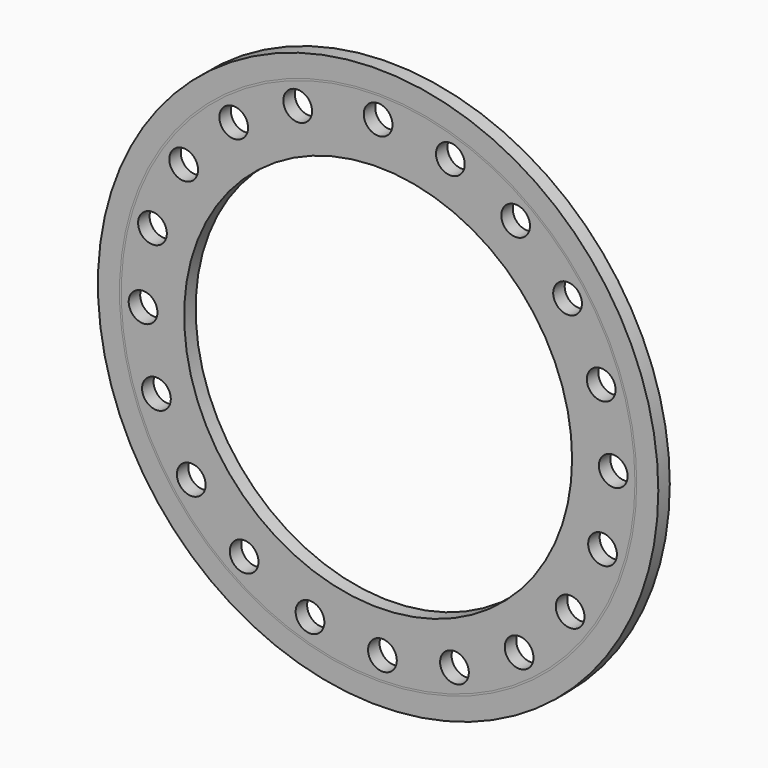
from build123d import *

# Parameters (mm, degrees)
F0_R     = 495.3
F0_R_2   = 25.4
F0_R_3   = 342.9
F1_DEPTH = 25.4
F3_DEPTH = 12.7


with BuildPart() as f1:
    # F0 (on Front) → F1 (new body)
    with BuildSketch(Plane.XZ):
        Circle(F0_R)
        with Locations((-330.3273186673, -251.1668106439)):
            Circle(F0_R_2, mode=Mode.SUBTRACT)
        with Locations((-120.4247256331, -396.7100299756)):
            Circle(F0_R_2, mode=Mode.SUBTRACT)
        with Locations((-236.8333982647, -340.4622609039)):
            Circle(F0_R_2, mode=Mode.SUBTRACT)
        with Locations((-391.8605075296, -137.463436649)):
            Circle(F0_R_2, mode=Mode.SUBTRACT)
        with Locations((-415.4793375887, -10.3534785182)):
            Circle(F0_R_2, mode=Mode.SUBTRACT)
        with Locations((7.6356091811, -414.467879977)):
            Circle(F0_R_2, mode=Mode.SUBTRACT)
        with Locations((134.9571626672, -392.0176548717)):
            Circle(F0_R_2, mode=Mode.SUBTRACT)
        with Locations((249.2209719047, -331.5315201968)):
            Circle(F0_R_2, mode=Mode.SUBTRACT)
        with Locations((339.3714725325, -238.8617957667)):
            Circle(F0_R_2, mode=Mode.SUBTRACT)
        with Locations((396.686176927, -122.9747160315)):
            Circle(F0_R_2, mode=Mode.SUBTRACT)
        with Locations((-398.8985752472, 117.8645736803)):
            Circle(F0_R_2, mode=Mode.SUBTRACT)
        with Locations((-343.7224877393, 234.7850165323)):
            Circle(F0_R_2, mode=Mode.SUBTRACT)
        with Locations((-255.2896226832, 329.0952438004)):
            Circle(F0_R_2, mode=Mode.SUBTRACT)
        with Locations((-142.1562783312, 391.6702946203)):
            Circle(F0_R_2, mode=Mode.SUBTRACT)
        Circle(F0_R_3, mode=Mode.SUBTRACT)
        with Locations((415.6196161639, 4.917095544)):
            Circle(F0_R_2, mode=Mode.SUBTRACT)
        with Locations((334.9059137749, 247.2541036599)):
            Circle(F0_R_2, mode=Mode.SUBTRACT)
        with Locations((394.3398903841, 132.4395008699)):
            Circle(F0_R_2, mode=Mode.SUBTRACT)
        with Locations((243.068204878, 338.2520476693)):
            Circle(F0_R_2, mode=Mode.SUBTRACT)
        with Locations((0, 416.7362819672)):
            Circle(F0_R_2, mode=Mode.SUBTRACT)
        with Locations((127.7124967025, 396.6288511166)):
            Circle(F0_R_2, mode=Mode.SUBTRACT)
    extrude(amount=F1_DEPTH)


with BuildPart() as f3:
    # F2 (on face) → F3 (new body)
    with BuildSketch(Plane.XZ.offset(25.4)):
        with BuildLine():
            Line((409.4878892291, 203.3507034035), (406.6540299131, 201.9187969964))
            ThreePointArc((406.6540299131, 201.9187969964), (442.023639954, 103.7005416903), (454.025, 0))
            ThreePointArc((454.025, 0), (442.0236398243, -103.700542243), (406.6540294081, -201.9187980134))
            Line((406.6540294081, -201.9187980134), (409.4878892291, -203.3507034035))
            ThreePointArc((409.4878892291, -203.3507034035), (445.1121785323, -104.4365286776), (457.2, 0))
            ThreePointArc((457.2, 0), (445.1121785323, 104.4365286776), (409.4878892291, 203.3507034035))
        make_face()
        with BuildLine():
            ThreePointArc((403.7902873357, 207.5863783545), (405.2320671046, 204.7575942796), (406.6540299131, 201.9187969964))
            Line((406.6540299131, 201.9187969964), (409.4878892291, 203.3507034035))
            Line((409.4878892291, 203.3507034035), (406.6241466469, 209.0182847591))
            Line((406.6241466469, 209.0182847591), (403.7902873357, 207.5863783545))
        make_face()
        with BuildLine():
            Line((409.4878892291, -203.3507034035), (406.6540294081, -201.9187980134))
            ThreePointArc((406.6540294081, -201.9187980134), (405.2320665925, -204.7575952931), (403.7902868166, -207.5863793643))
            Line((403.7902868166, -207.5863793643), (406.6241466469, -209.0182847591))
            Line((406.6241466469, -209.0182847591), (409.4878892291, -203.3507034035))
        make_face()
        with BuildLine():
            ThreePointArc((-402.1703246311, 210.7076899668), (1.7583277102, 454.0215952008), (403.7902873357, 207.5863783545))
            Line((403.7902873357, 207.5863783545), (406.6241466469, 209.0182847591))
            ThreePointArc((406.6241466469, 209.0182847591), (1.759522259, 457.1966142497), (-405.003310923, 212.1418349629))
            Line((-405.003310923, 212.1418349629), (-402.1703246311, 210.7076899668))
        make_face()
        with BuildLine():
            Line((406.6241466469, 209.0182847591), (409.4878892291, 203.3507034035))
            ThreePointArc((409.4878892291, 203.3507034035), (408.0658576076, 206.1894659166), (406.6241466469, 209.0182847591))
        make_face()
        with BuildLine():
            Line((406.6241466469, -209.0182847591), (403.7902868166, -207.5863793643))
            ThreePointArc((403.7902868166, -207.5863793643), (1.7351424689, -454.0216844002), (-402.1918421643, -210.666615109))
            Line((-402.1918421643, -210.666615109), (-405.003310923, -212.1418349629))
            ThreePointArc((-405.003310923, -212.1418349629), (1.759522259, -457.1966142497), (406.6241466469, -209.0182847591))
        make_face()
        with BuildLine():
            ThreePointArc((406.6241466469, -209.0182847591), (408.0658576076, -206.1894659166), (409.4878892291, -203.3507034035))
            Line((409.4878892291, -203.3507034035), (406.6241466469, -209.0182847591))
        make_face()
        with BuildLine():
            ThreePointArc((-405.0778789909, 205.0624601853), (-403.6339712134, 207.8901582747), (-402.1703246311, 210.7076899668))
            Line((-402.1703246311, 210.7076899668), (-405.003310923, 212.1418349629))
            Line((-405.003310923, 212.1418349629), (-407.9105914314, 206.4964634034))
            Line((-407.9105914314, 206.4964634034), (-405.0778789909, 205.0624601853))
        make_face()
        with BuildLine():
            Line((-405.003310923, -212.1418349629), (-402.1918421643, -210.666615109))
            ThreePointArc((-402.1918421643, -210.666615109), (-403.6552035113, -207.8489290404), (-405.0988249465, -205.0210785553))
            Line((-405.0988249465, -205.0210785553), (-407.9105914314, -206.4964634034))
            Line((-407.9105914314, -206.4964634034), (-405.003310923, -212.1418349629))
        make_face()
        with BuildLine():
            ThreePointArc((-405.0988249465, -205.0210785553), (-454.0249994077, 0.0231903663), (-405.0778789909, 205.0624601853))
            Line((-405.0778789909, 205.0624601853), (-407.9105914314, 206.4964634034))
            ThreePointArc((-407.9105914314, 206.4964634034), (-457.2, 0), (-407.9105914314, -206.4964634034))
            Line((-407.9105914314, -206.4964634034), (-405.0988249465, -205.0210785553))
        make_face()
        with BuildLine():
            Line((-407.9105914314, 206.4964634034), (-405.003310923, 212.1418349629))
            ThreePointArc((-405.003310923, 212.1418349629), (-406.4667522876, 209.324196606), (-407.9105914314, 206.4964634034))
        make_face()
        with BuildLine():
            ThreePointArc((-407.9105914314, -206.4964634034), (-406.4667522876, -209.324196606), (-405.003310923, -212.1418349629))
            Line((-405.003310923, -212.1418349629), (-407.9105914314, -206.4964634034))
        make_face()
    extrude(amount=-F3_DEPTH)


solid = Compound([f1.part, f3.part])
